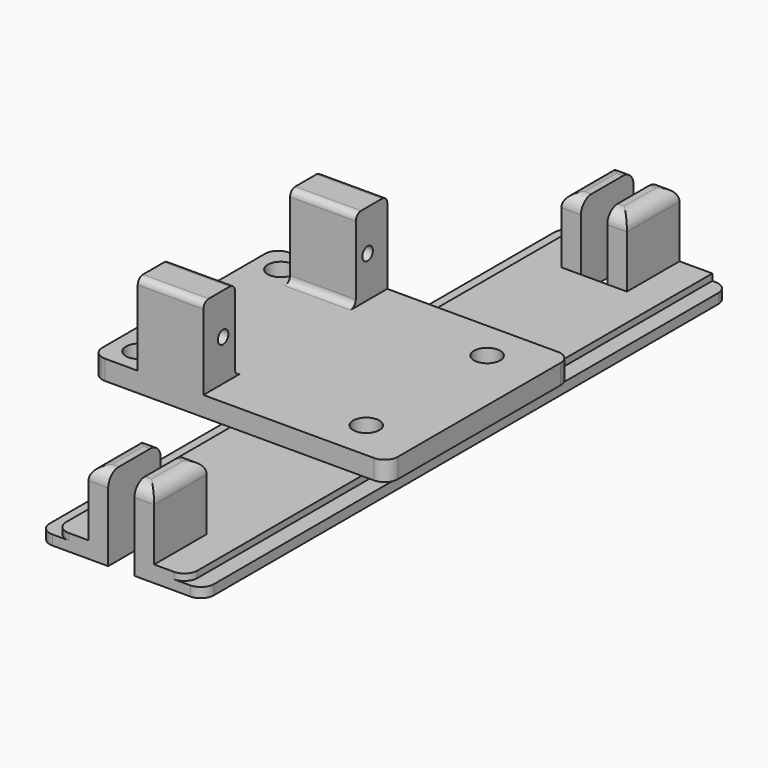
from build123d import *

# Parameters (mm, degrees)
BOX007_W          = 4
BOX007_H          = 10
BOX007_DEPTH      = 13
BOX008_W          = 4
BOX008_H          = 10
BOX008_DEPTH      = 13
BOX005_W          = 10
BOX005_H          = 10
BOX005_DEPTH      = 10
FILLET003_R       = 2
BOX006_W          = 10
BOX006_H          = 10
BOX006_DEPTH      = 10
FILLET004_R       = 2
CYLINDER007_R     = 2
CYLINDER007_DEPTH = 10
CYLINDER006_R     = 2
CYLINDER006_DEPTH = 10
BOX003_W          = 25
BOX003_H          = 100
BOX003_DEPTH      = 1.5
FILLET001_R       = 2
BOX004_W          = 20
BOX004_H          = 100
BOX004_DEPTH      = 1
FILLET002_R       = 2
CHAMFER_SIZE      = 2.25
CYLINDER_R        = 1
CYLINDER_DEPTH    = 28
CYLINDER004_R     = 2
CYLINDER004_DEPTH = 10
CYLINDER005_R     = 2
CYLINDER005_DEPTH = 10
CYLINDER003_R     = 2
CYLINDER003_DEPTH = 10
CYLINDER001_R     = 1
CYLINDER001_DEPTH = 28
CYLINDER002_R     = 2
CYLINDER002_DEPTH = 10
BOX002_W          = 16
BOX002_H          = 23
BOX002_DEPTH      = 12.5
BOX001_W          = 10
BOX001_H          = 35
BOX001_DEPTH      = 12.5
BOX_W             = 45
BOX_H             = 35
BOX_DEPTH         = 3
FILLET_R          = 2
FILLET005_R       = 1


with BuildPart() as cube006:
    # Box007 → Box007 (new body)
    with BuildSketch(Plane(origin=(28.5, -32.5, -3), x_dir=(1, 0, 0), z_dir=(0, 0, 1))):
        with Locations((2, 5)):
            Rectangle(BOX007_W, BOX007_H)
    extrude(amount=BOX007_DEPTH)


with BuildPart() as fusion005:
    # Box008 → Box008 (new body)
    with BuildSketch(Plane(origin=(28.5, 57.5, -3), x_dir=(1, 0, 0), z_dir=(0, 0, 1))):
        with Locations((2, 5)):
            Rectangle(BOX008_W, BOX008_H)
    extrude(amount=BOX008_DEPTH)

    # Fusion005: union Cube006
    add(cube006.part)


with BuildPart() as fillet003:
    # Box005 → Box005 (new body)
    with BuildSketch(Plane(origin=(25.5, -32.5, -0.5), x_dir=(1, 0, 0), z_dir=(0, 0, 1))):
        with Locations((5, 5)):
            Rectangle(BOX005_W, BOX005_H)
    extrude(amount=BOX005_DEPTH)

    # Fillet003
    fillet003_edges = [fillet003.edges().sort_by_distance(p)[0] for p in [
        (25.5, -27.5, 9.5),
        (35.5, -27.5, 9.5),
        (30.5, -32.5, 9.5),
        (30.5, -22.5, 9.5),
    ]]
    fillet(fillet003_edges, radius=FILLET003_R)


with BuildPart() as fillet004:
    # Box006 → Box006 (new body)
    with BuildSketch(Plane(origin=(25.5, 57.5, -0.5), x_dir=(1, 0, 0), z_dir=(0, 0, 1))):
        with Locations((5, 5)):
            Rectangle(BOX006_W, BOX006_H)
    extrude(amount=BOX006_DEPTH)

    # Fillet004
    fillet004_edges = [fillet004.edges().sort_by_distance(p)[0] for p in [
        (25.5, 62.5, 9.5),
        (35.5, 62.5, 9.5),
        (30.5, 57.5, 9.5),
        (30.5, 67.5, 9.5),
    ]]
    fillet(fillet004_edges, radius=FILLET004_R)


with BuildPart() as cylinder007:
    # Cylinder007 → Cylinder007 (new body)
    with BuildSketch(Plane(origin=(37, 6, -5), x_dir=(1, 0, 0), z_dir=(0, 0, 1))):
        Circle(CYLINDER007_R)
    extrude(amount=CYLINDER007_DEPTH)


with BuildPart() as fusion002:
    # Cylinder006 → Cylinder006 (new body)
    with BuildSketch(Plane(origin=(37, 29, -5), x_dir=(1, 0, 0), z_dir=(0, 0, 1))):
        Circle(CYLINDER006_R)
    extrude(amount=CYLINDER006_DEPTH)

    # Fusion002: union Cylinder007
    add(cylinder007.part)


with BuildPart() as fillet001:
    # Box003 → Box003 (new body)
    with BuildSketch(Plane(origin=(18, -32.5, -3), x_dir=(1, 0, 0), z_dir=(0, 0, 1))):
        with Locations((12.5, 50)):
            Rectangle(BOX003_W, BOX003_H)
    extrude(amount=BOX003_DEPTH)

    # Fillet001
    fillet001_edges = [fillet001.edges().sort_by_distance(p)[0] for p in [
        (18, -32.5, -2.25),
        (18, 67.5, -2.25),
        (43, -32.5, -2.25),
        (43, 67.5, -2.25),
    ]]
    fillet(fillet001_edges, radius=FILLET001_R)


with BuildPart() as bottom:
    # Box004 → Box004 (new body)
    with BuildSketch(Plane(origin=(20.5, -32.5, -1.5), x_dir=(1, 0, 0), z_dir=(0, 0, 1))):
        with Locations((10, 50)):
            Rectangle(BOX004_W, BOX004_H)
    extrude(amount=BOX004_DEPTH)

    # Fillet002
    fillet002_edges = [bottom.edges().sort_by_distance(p)[0] for p in [
        (20.5, -32.5, -1),
        (20.5, 67.5, -1),
        (40.5, -32.5, -1),
    ]]
    fillet(fillet002_edges, radius=FILLET002_R)

    # Fusion003: union Fillet001
    add(fillet001.part)

    # Cut002: cut Fusion002
    add(fusion002.part, mode=Mode.SUBTRACT)

    # Fusion004: union Fillet003, Fillet004
    add(fillet003.part)
    add(fillet004.part)

    # Cut003: cut Fusion005
    add(fusion005.part, mode=Mode.SUBTRACT)

    # Chamfer
    chamfer_edges = [bottom.edges().sort_by_distance(p)[0] for p in [
        (35, 6, -3),
        (35, 29, -3),
    ]]
    chamfer(chamfer_edges, length=CHAMFER_SIZE)


with BuildPart() as cylinder:
    # Cylinder → Cylinder (new body)
    with BuildSketch(Plane(origin=(0, 3.75, 9.25), x_dir=(0, 0, -1), z_dir=(1, 0, 0))):
        Circle(CYLINDER_R)
    extrude(amount=CYLINDER_DEPTH)


with BuildPart() as cylinder004:
    # Cylinder004 → Cylinder004 (new body)
    with BuildSketch(Plane(origin=(37, 6, -5), x_dir=(1, 0, 0), z_dir=(0, 0, 1))):
        Circle(CYLINDER004_R)
    extrude(amount=CYLINDER004_DEPTH)


with BuildPart() as cylinder005:
    # Cylinder005 → Cylinder005 (new body)
    with BuildSketch(Plane(origin=(37, 29, -5), x_dir=(1, 0, 0), z_dir=(0, 0, 1))):
        Circle(CYLINDER005_R)
    extrude(amount=CYLINDER005_DEPTH)


with BuildPart() as cylinder003:
    # Cylinder003 → Cylinder003 (new body)
    with BuildSketch(Plane(origin=(4, 31, 0), x_dir=(1, 0, 0), z_dir=(0, 0, 1))):
        Circle(CYLINDER003_R)
    extrude(amount=CYLINDER003_DEPTH)


with BuildPart() as cylinder001:
    # Cylinder001 → Cylinder001 (new body)
    with BuildSketch(Plane(origin=(0, 31.25, 9.25), x_dir=(0, 0, -1), z_dir=(1, 0, 0))):
        Circle(CYLINDER001_R)
    extrude(amount=CYLINDER001_DEPTH)


with BuildPart() as fusion001:
    # Cylinder002 → Cylinder002 (new body)
    with BuildSketch(Plane(origin=(4, 4, 0), x_dir=(1, 0, 0), z_dir=(0, 0, 1))):
        Circle(CYLINDER002_R)
    extrude(amount=CYLINDER002_DEPTH)

    # Fusion001: union Cylinder, Cylinder004, Cylinder005, Cylinder003, Cylinder001
    add(cylinder.part)
    add(cylinder004.part)
    add(cylinder005.part)
    add(cylinder003.part)
    add(cylinder001.part)


with BuildPart() as cube001:
    # Box002 → Box002 (new body)
    with BuildSketch(Plane(origin=(7, 6, 3), x_dir=(1, 0, 0), z_dir=(0, 0, 1))):
        with Locations((8, 11.5)):
            Rectangle(BOX002_W, BOX002_H)
    extrude(amount=BOX002_DEPTH)


with BuildPart() as cut:
    # Box001 → Box001 (new body)
    with BuildSketch(Plane(origin=(7, 0, 3), x_dir=(1, 0, 0), z_dir=(0, 0, 1))):
        with Locations((5, 17.5)):
            Rectangle(BOX001_W, BOX001_H)
    extrude(amount=BOX001_DEPTH)

    # Cut: cut Cube001
    add(cube001.part, mode=Mode.SUBTRACT)


with BuildPart() as top:
    # Box → Box (new body)
    with BuildSketch(Plane.XY):
        with Locations((22.5, 17.5)):
            Rectangle(BOX_W, BOX_H)
    extrude(amount=BOX_DEPTH)

    # Fillet
    fillet_edges = [top.edges().sort_by_distance(p)[0] for p in [
        (0, 0, 1.5),
        (0, 35, 1.5),
        (45, 0, 1.5),
        (45, 35, 1.5),
    ]]
    fillet(fillet_edges, radius=FILLET_R)

    # Fusion: union Cut
    add(cut.part)

    # Cut001: cut Fusion001
    add(fusion001.part, mode=Mode.SUBTRACT)

    # Fillet005
    fillet005_edges = [top.edges().sort_by_distance(p)[0] for p in [
        (12, 6, 3),
        (12, 29, 3),
        (12, 6, 15.5),
        (12, 29, 15.5),
        (12, 0, 15.5),
        (12, 35, 15.5),
    ]]
    fillet(fillet005_edges, radius=FILLET005_R)


solid = Compound([bottom.part, top.part])
